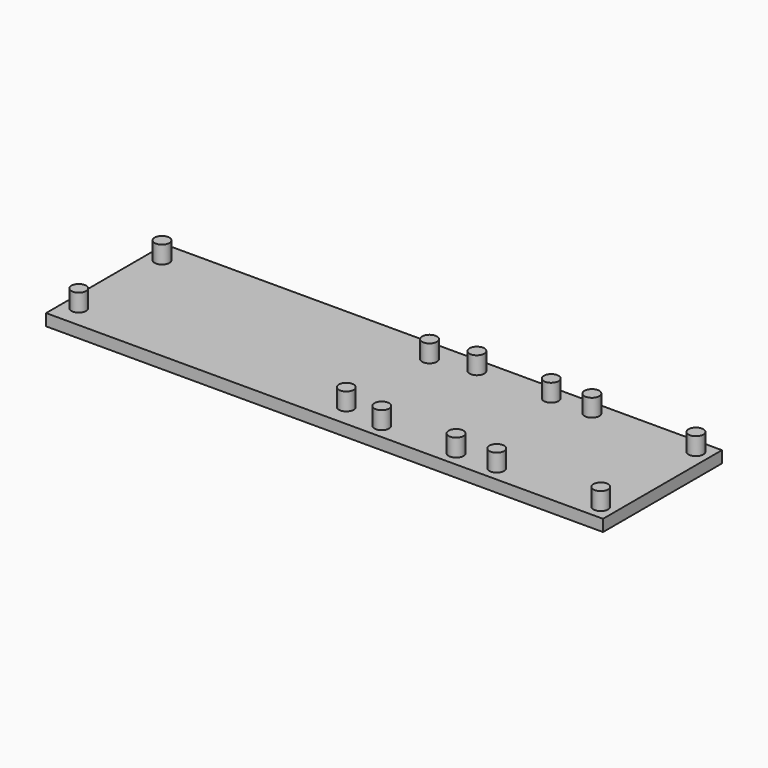
from build123d import *

# Parameters (mm, degrees)
SKETCH001_W  = 95.18
SKETCH001_H  = 25.4
PAD_DEPTH    = 2
SKETCH_R     = 1.26
PAD001_DEPTH = 3


with BuildPart() as part:
    # Sketch001 → Pad (new body)
    with BuildSketch(Plane.XY):
        Rectangle(SKETCH001_W, SKETCH001_H)
    extrude(amount=-PAD_DEPTH)

    # Sketch → Pad001 (join)
    with BuildSketch(Plane.XY):
        with Locations((-45.05, 8.89)):
            Circle(SKETCH_R)
        with Locations((0.67, 8.89)):
            Circle(SKETCH_R)
        with Locations((-45.05, -8.89)):
            Circle(SKETCH_R)
        with Locations((0.67, -8.89)):
            Circle(SKETCH_R)
        with Locations((27.4, 10.16)):
            Circle(SKETCH_R)
        with Locations((27.4, -10.16)):
            Circle(SKETCH_R)
        with Locations((45.18, 10.16)):
            Circle(SKETCH_R)
        with Locations((45.18, -10.16)):
            Circle(SKETCH_R)
        with Locations((7.75, 10.16)):
            Circle(SKETCH_R)
        with Locations((20.45, 10.16)):
            Circle(SKETCH_R)
        with Locations((7.75, -10.16)):
            Circle(SKETCH_R)
        with Locations((20.45, -10.16)):
            Circle(SKETCH_R)
    extrude(amount=PAD001_DEPTH)


solid = part.part
